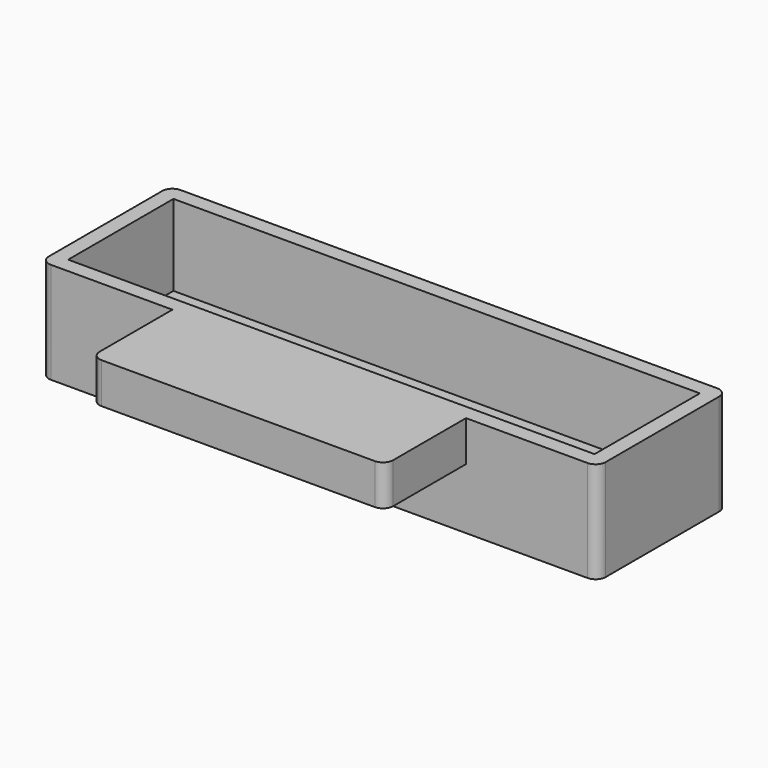
from build123d import *

# Parameters (mm, degrees)
F0_W     = 349.25
F0_H     = 101.6
F0_W_2   = 330.2
F0_H_2   = 82.55
F1_DEPTH = 63.5
F2_R     = 6.35
F3_W     = 330.2
F3_H     = 82.55
F4_DEPTH = 12.7
F5_W     = 184.15
F5_H     = 25.4
F6_DEPTH = 63.5
F7_R     = 6.35


with BuildPart() as f1:
    # F0 (on Top) → F1 (new body)
    with BuildSketch(Plane.XY):
        Rectangle(F0_W, F0_H)
        Rectangle(F0_W_2, F0_H_2, mode=Mode.SUBTRACT)
    extrude(amount=F1_DEPTH)

    # F2
    f2_edges = [f1.edges().sort_by_distance(p)[0] for p in [
        (-174.625, -50.8, 31.75),
        (174.625, -50.8, 31.75),
        (174.625, 50.8, 31.75),
        (-174.625, 50.8, 31.75),
    ]]
    fillet(f2_edges, radius=F2_R)

    # F3 (on Top) → F4 (join)
    with BuildSketch(Plane.XY):
        Rectangle(F3_W, F3_H)
    extrude(amount=F4_DEPTH)

    # F5 (on face) → F6 (join)
    with BuildSketch(Plane.XZ.offset(50.8)):
        with Locations((0, 50.8)):
            Rectangle(F5_W, F5_H)
    extrude(amount=F6_DEPTH)

    # F7
    f7_edges = [f1.edges().sort_by_distance(p)[0] for p in [
        (-92.075, -114.3, 50.8),
        (92.075, -114.3, 50.8),
    ]]
    fillet(f7_edges, radius=F7_R)


solid = f1.part
